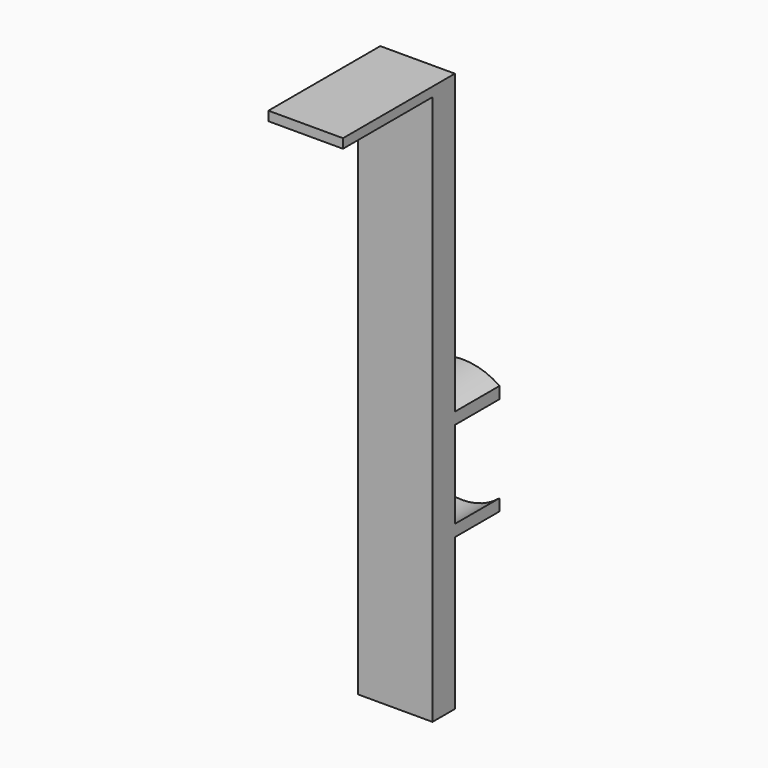
from build123d import *

# Parameters (mm, degrees)
F1_DEPTH = 3
F3_DEPTH = 6
F2_W     = 8
F2_H     = 1
F4_DEPTH = 15


with BuildPart() as f1:
    # F0 (on Front) → F1 (new body)
    with BuildSketch(Plane.XZ):
        with BuildLine():
            ThreePointArc((-22.7528382093, 28.0764238795), (-18.7528382093, 29.3), (-14.7528382093, 28.0764238795))
            Line((-14.7528382093, 28.0764238795), (-14.7528382093, 60))
            Line((-14.7528382093, 60), (-22.7528382093, 60))
            Line((-22.7528382093, 60), (-22.7528382093, 28.0764238795))
        make_face()
        with BuildLine():
            ThreePointArc((-22.7528382093, 16.2235761205), (-18.7528382093, 15), (-14.7528382093, 16.2235761205))
            Line((-14.7528382093, 16.2235761205), (-14.7528382093, 28.0764238795))
            ThreePointArc((-14.7528382093, 28.0764238795), (-18.7528382093, 29.3), (-22.7528382093, 28.0764238795))
            Line((-22.7528382093, 28.0764238795), (-22.7528382093, 16.2235761205))
        make_face()
        with BuildLine():
            Line((-22.7528382093, 0), (-14.7528382093, 0))
            Line((-14.7528382093, 0), (-14.7528382093, 16.2235761205))
            ThreePointArc((-14.7528382093, 16.2235761205), (-18.7528382093, 15), (-22.7528382093, 16.2235761205))
            Line((-22.7528382093, 16.2235761205), (-22.7528382093, 0))
        make_face()
    extrude(amount=-F1_DEPTH)

    # F2 (on face) → F3 (join)
    with BuildSketch(Plane(origin=(0, 3, 0), x_dir=(-1, 0, 0), z_dir=(0, 1, 0))):
        with BuildLine():
            ThreePointArc((22.7528382093, 28.0764238795), (18.7528382093, 29.3), (14.7528382093, 28.0764238795))
            Line((14.7528382093, 28.0764238795), (14.7528382093, 26.8214558758))
            ThreePointArc((14.7528382093, 26.8214558758), (18.7528382093, 28.3), (22.7528382093, 26.8214558758))
            Line((22.7528382093, 26.8214558758), (22.7528382093, 28.0764238795))
        make_face()
        with BuildLine():
            Line((14.7528382093, 17.4785441242), (14.7528382093, 16.2235761205))
            ThreePointArc((14.7528382093, 16.2235761205), (18.7528382093, 15), (22.7528382093, 16.2235761205))
            Line((22.7528382093, 16.2235761205), (22.7528382093, 17.4785441242))
            ThreePointArc((22.7528382093, 17.4785441242), (18.7528382093, 16), (14.7528382093, 17.4785441242))
        make_face()
    extrude(amount=F3_DEPTH)

    # F2 (on face) → F4 (join)
    with BuildSketch(Plane(origin=(0, 3, 0), x_dir=(-1, 0, 0), z_dir=(0, 1, 0))):
        with Locations((18.7528382093, 59.5)):
            Rectangle(F2_W, F2_H)
    extrude(amount=-F4_DEPTH)


solid = f1.part
